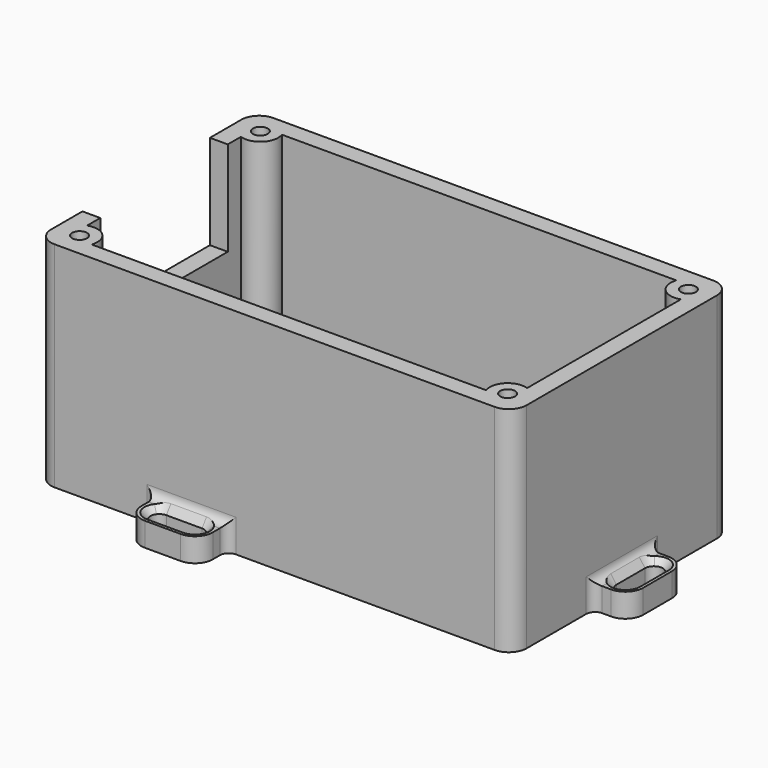
from build123d import *

# Parameters (mm, degrees)
SKETCH_W        = 80
SKETCH_H        = 46
PAD_DEPTH       = 36
SKETCH001_W     = 74
SKETCH001_H     = 40
POCKET_DEPTH    = 33
SKETCH002_W     = 3
SKETCH002_H     = 26.8
POCKET001_DEPTH = 15.9
SKETCH003_R     = 3
PAD001_DEPTH    = 33
SKETCH006_R     = 1.25
POCKET002_DEPTH = 20
SKETCH007_R     = 1.2
PAD002_DEPTH    = 3
SKETCH008_W     = 3.5
SKETCH008_H     = 2
SKETCH008_W_2   = 2
SKETCH008_H_2   = 8
PAD003_DEPTH    = 1
FILLET_R        = 3
FILLET001_R     = 3
FILLET002_R     = 3
SKETCH009_W     = 12
SKETCH009_H     = 6
SKETCH009_W_2   = 6
SKETCH009_H_2   = 12
PAD004_DEPTH    = 4
FILLET003_R     = 1.5
FILLET004_R     = 3
FILLET005_R     = 1.5
FILLET006_R     = 1.5
FILLET007_R     = 1.5
FILLET008_R     = 3
FILLET009_R     = 3
FILLET010_R     = 1.5
FILLET011_R     = 1.5
POCKET003_DEPTH = 4
CHAMFER_SIZE    = 1
CHAMFER001_SIZE = 1
CHAMFER002_SIZE = 1


with BuildPart() as part:
    # Sketch → Pad (new body)
    with BuildSketch(Plane.XY):
        with Locations((40, 23)):
            Rectangle(SKETCH_W, SKETCH_H)
    extrude(amount=PAD_DEPTH)

    # Sketch001 → Pocket (cut)
    with BuildSketch(Plane.XY.offset(36)):
        with Locations((40, 23)):
            Rectangle(SKETCH001_W, SKETCH001_H)
    extrude(amount=-POCKET_DEPTH, mode=Mode.SUBTRACT)

    # Sketch002 → Pocket001 (cut)
    with BuildSketch(Plane.XY.offset(36)):
        with Locations((1.5, 23)):
            Rectangle(SKETCH002_W, SKETCH002_H)
    extrude(amount=-POCKET001_DEPTH, mode=Mode.SUBTRACT)

    # Sketch003 → Pad001 (new body)
    with BuildSketch(Plane.XY.offset(3)):
        with Locations((4, 42)):
            Circle(SKETCH003_R)
        with Locations((4, 4)):
            Circle(SKETCH003_R)
        with Locations((76, 4)):
            Circle(SKETCH003_R)
        with Locations((76, 42)):
            Circle(SKETCH003_R)
    extrude(amount=PAD001_DEPTH)

    # Sketch006 → Pocket002 (cut)
    with BuildSketch(Plane.XY.offset(36)):
        with Locations((4, 42)):
            Circle(SKETCH006_R)
        with Locations((4, 4)):
            Circle(SKETCH006_R)
        with Locations((76, 4)):
            Circle(SKETCH006_R)
        with Locations((76, 42)):
            Circle(SKETCH006_R)
    extrude(amount=-POCKET002_DEPTH, mode=Mode.SUBTRACT)

    # Sketch007 → Pad002 (new body)
    with BuildSketch(Plane.XY.offset(3)):
        with Locations((7, 11.5)):
            Circle(SKETCH007_R)
        with Locations((7, 34.5)):
            Circle(SKETCH007_R)
        with Locations((65, 34.5)):
            Circle(SKETCH007_R)
        with Locations((65, 11.5)):
            Circle(SKETCH007_R)
    extrude(amount=PAD002_DEPTH)

    # Sketch008 → Pad003 (new body)
    with BuildSketch(Plane.XY.offset(3)):
        with Locations((4.75, 34.5)):
            Rectangle(SKETCH008_W, SKETCH008_H)
        with Locations((4.75, 11.5)):
            Rectangle(SKETCH008_W, SKETCH008_H)
        with Locations((65, 39)):
            Rectangle(SKETCH008_W_2, SKETCH008_H_2)
        with Locations((65, 7)):
            Rectangle(SKETCH008_W_2, SKETCH008_H_2)
    extrude(amount=PAD003_DEPTH)

    # Fillet
    fillet_edges = [part.edges().sort_by_distance(p)[0] for p in [
        (80, 0, 18),
    ]]
    fillet(fillet_edges, radius=FILLET_R)

    # Fillet001
    fillet001_edges = [part.edges().sort_by_distance(p)[0] for p in [
        (80, 46, 18),
    ]]
    fillet(fillet001_edges, radius=FILLET001_R)

    # Fillet002
    fillet002_edges = [part.edges().sort_by_distance(p)[0] for p in [
        (0, 0, 18),
        (0, 46, 18),
    ]]
    fillet(fillet002_edges, radius=FILLET002_R)

    # Sketch009 → Pad004 (new body)
    with BuildSketch(Plane(origin=(0, 0, 0), x_dir=(1, 0, 0), z_dir=(0, 0, -1))):
        with Locations((26, 3)):
            Rectangle(SKETCH009_W, SKETCH009_H)
        with Locations((83, -23)):
            Rectangle(SKETCH009_W_2, SKETCH009_H_2)
        with Locations((26, -49)):
            Rectangle(SKETCH009_W, SKETCH009_H)
    extrude(amount=-PAD004_DEPTH)

    # Fillet003
    fillet003_edges = [part.edges().sort_by_distance(p)[0] for p in [
        (26, 46, 4),
        (32, 46, 2),
    ]]
    fillet(fillet003_edges, radius=FILLET003_R)

    # Fillet004
    fillet004_edges = [part.edges().sort_by_distance(p)[0] for p in [
        (32, 52, 2),
        (20, 52, 2),
    ]]
    fillet(fillet004_edges, radius=FILLET004_R)

    # Fillet005
    fillet005_edges = [part.edges().sort_by_distance(p)[0] for p in [
        (20, 46, 2),
    ]]
    fillet(fillet005_edges, radius=FILLET005_R)

    # Fillet006
    fillet006_edges = [part.edges().sort_by_distance(p)[0] for p in [
        (80, 23, 4),
        (80, 29, 2),
    ]]
    fillet(fillet006_edges, radius=FILLET006_R)

    # Fillet007
    fillet007_edges = [part.edges().sort_by_distance(p)[0] for p in [
        (80, 17, 2),
    ]]
    fillet(fillet007_edges, radius=FILLET007_R)

    # Fillet008
    fillet008_edges = [part.edges().sort_by_distance(p)[0] for p in [
        (86, 17, 2),
        (86, 29, 2),
    ]]
    fillet(fillet008_edges, radius=FILLET008_R)

    # Fillet009
    fillet009_edges = [part.edges().sort_by_distance(p)[0] for p in [
        (32, -6, 2),
        (20, -6, 2),
    ]]
    fillet(fillet009_edges, radius=FILLET009_R)

    # Fillet010
    fillet010_edges = [part.edges().sort_by_distance(p)[0] for p in [
        (26, 0, 4),
        (32, 0, 2),
    ]]
    fillet(fillet010_edges, radius=FILLET010_R)

    # Fillet011
    fillet011_edges = [part.edges().sort_by_distance(p)[0] for p in [
        (20, 0, 2),
    ]]
    fillet(fillet011_edges, radius=FILLET011_R)

    # Sketch010 → Pocket003 (cut)
    with BuildSketch(Plane.XY.offset(4)):
        with BuildLine():
            ThreePointArc((23, 50.5), (21.5, 49), (23, 47.5))
            Line((23, 47.5), (29, 47.5))
            ThreePointArc((29, 47.5), (30.5, 49), (29, 50.5))
            Line((23, 50.5), (29, 50.5))
        make_face()
        with BuildLine():
            ThreePointArc((23, -1.5), (21.5, -3), (23, -4.5))
            Line((23, -4.5), (29, -4.5))
            ThreePointArc((29, -4.5), (30.5, -3), (29, -1.5))
            Line((23, -1.5), (29, -1.5))
        make_face()
        with BuildLine():
            ThreePointArc((84.5, 26), (83, 27.5), (81.5, 26))
            Line((81.5, 26), (81.5, 20))
            ThreePointArc((81.5, 20), (83, 18.5), (84.5, 20))
            Line((84.5, 26), (84.5, 20))
        make_face()
    extrude(amount=-POCKET003_DEPTH, mode=Mode.SUBTRACT)

    # Chamfer
    chamfer_edges = [part.edges().sort_by_distance(p)[0] for p in [
        (21.5, 49, 4),
        (29, 47.5, 2),
        (30.5, 49, 4),
        (26, 47.5, 4),
    ]]
    chamfer(chamfer_edges, length=CHAMFER_SIZE)

    # Chamfer001
    chamfer001_edges = [part.edges().sort_by_distance(p)[0] for p in [
        (26, -1.5, 4),
        (26, -4.5, 4),
        (21.5, -3, 4),
        (29, -4.5, 2),
    ]]
    chamfer(chamfer001_edges, length=CHAMFER001_SIZE)

    # Chamfer002
    chamfer002_edges = [part.edges().sort_by_distance(p)[0] for p in [
        (83, 27.5, 4),
        (84.5, 23, 4),
        (81.5, 23, 4),
        (83, 18.5, 4),
    ]]
    chamfer(chamfer002_edges, length=CHAMFER002_SIZE)


solid = part.part
